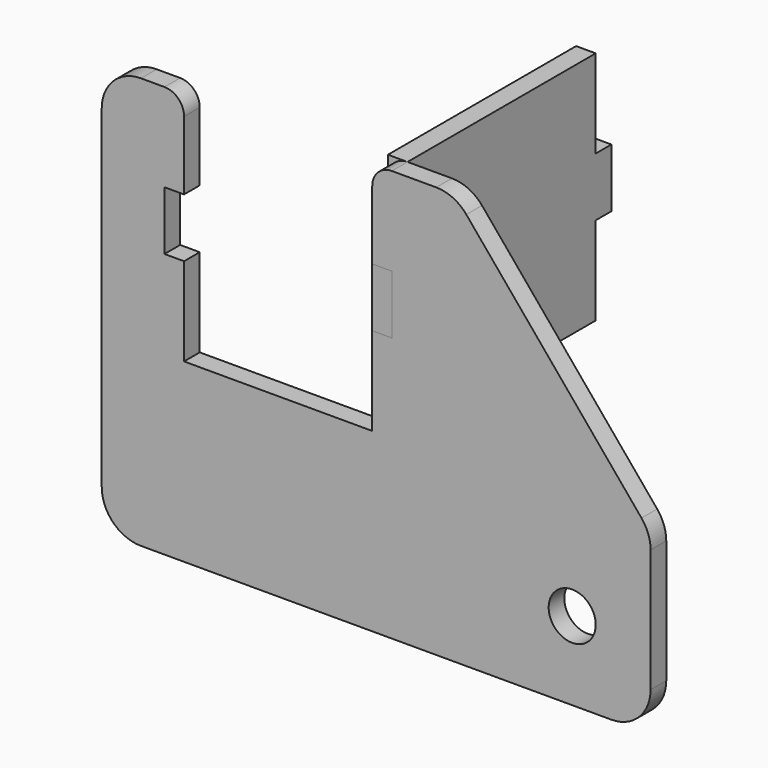
from build123d import *

# Parameters (mm, degrees)
F0_R     = 6
F1_DEPTH = 5
F2_W     = 5
F2_H     = 15
F3_DEPTH = 5


with BuildPart() as f1:
    # F0 (on Front) → F1 (new body)
    with BuildSketch(Plane.XZ):
        with BuildLine():
            ThreePointArc((0, 10), (2.928932, 2.928932), (10, 0))
            Line((10, 0), (130, 0))
            ThreePointArc((130, 0), (137.071068, 2.928932), (140, 10))
            Line((140, 10), (140, 41.379501))
            ThreePointArc((140, 41.379501), (139.402716, 44.783753), (137.682213, 47.781345))
            Line((137.682213, 47.781345), (92.998463, 101.401844))
            ThreePointArc((92.998463, 101.401844), (89.557805, 104.055894), (85.316251, 105))
            Line((85.316251, 105), (74, 105))
            ThreePointArc((74, 105), (70.464466, 103.535534), (69, 100))
            Line((69, 100), (69, 82.5))
            Line((69, 82.5), (74, 82.5))
            Line((74, 82.5), (74, 67.5))
            Line((74, 67.5), (69, 67.5))
            Line((69, 67.5), (69, 45))
            Line((69, 45), (21, 45))
            Line((21, 45), (21, 67.5))
            Line((21, 67.5), (16, 67.5))
            Line((16, 67.5), (16, 82.5))
            Line((16, 82.5), (21, 82.5))
            Line((21, 82.5), (21, 100))
            ThreePointArc((21, 100), (19.535534, 103.535534), (16, 105))
            Line((16, 105), (10, 105))
            ThreePointArc((10, 105), (2.928932, 102.071068), (0, 95))
            Line((0, 95), (0, 10))
        make_face()
        with Locations((120, 20)):
            Circle(F0_R, mode=Mode.SUBTRACT)
    extrude(amount=F1_DEPTH)


with BuildPart() as f3:
    # F2 (on face) → F3 (new body)
    with BuildSketch(Plane(origin=(74, 0, 0), x_dir=(0, -1, 0), z_dir=(-1, 0, 0))):
        Polygon((5, 67.5), (5, 82.5), (0, 82.5), (0, 105), (-60, 105), (-60, 82.5), (-60, 67.5), (-60, 45), (0, 45), (0, 67.5), align=None)
        with Locations((-62.5, 75)):
            Rectangle(F2_W, F2_H)
    extrude(amount=F3_DEPTH)


solid = Compound([f1.part, f3.part])
